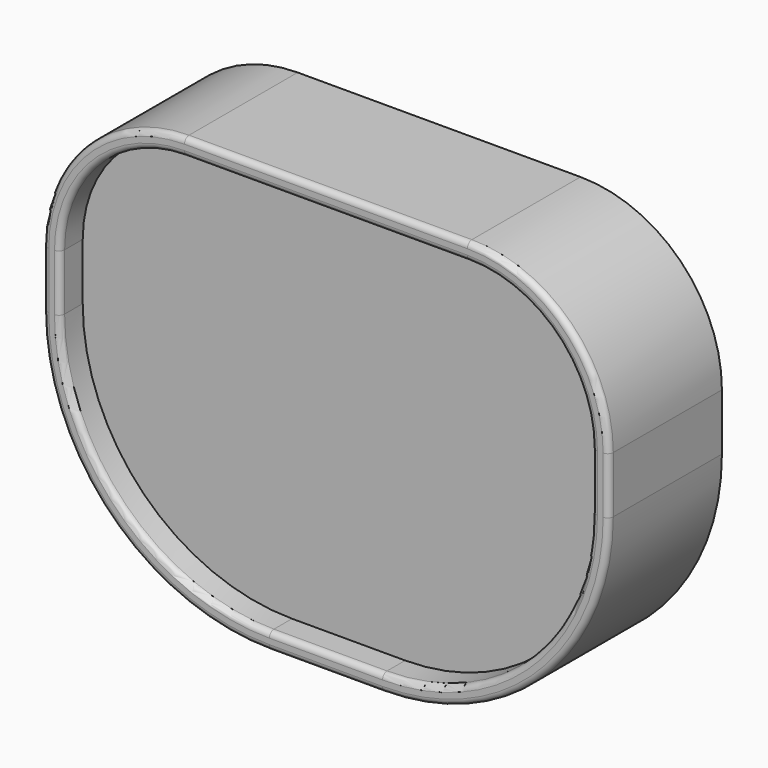
from build123d import *

# Parameters (mm, degrees)
F1_DEPTH = 20
F2_DEPTH = 25
F3_R     = 1


with BuildPart() as f1:
    # F0 (on Front) → F1 (new body)
    with BuildSketch(Plane.XZ):
        with BuildLine():
            Line((25, 27), (-25, 27))
            ThreePointArc((-25, 27), (-40.556349, 20.556349), (-47, 5))
            Line((-47, 5), (-47, -5))
            ThreePointArc((-47, -5), (-36.162951, -31.162951), (-10, -42))
            Line((-10, -42), (10, -42))
            ThreePointArc((10, -42), (36.162951, -31.162951), (47, -5))
            Line((47, -5), (47, 5))
            ThreePointArc((47, 5), (40.556349, 20.556349), (25, 27))
        make_face()
    extrude(amount=F1_DEPTH)

    # F0 (on Front) → F2 (join)
    with BuildSketch(Plane.XZ):
        with BuildLine():
            ThreePointArc((10, -45), (38.284271, -33.284271), (50, -5))
            Line((50, -5), (50, 5))
            ThreePointArc((50, 5), (42.67767, 22.67767), (25, 30))
            Line((25, 30), (-25, 30))
            ThreePointArc((-25, 30), (-42.67767, 22.67767), (-50, 5))
            Line((-50, 5), (-50, -5))
            ThreePointArc((-50, -5), (-38.284271, -33.284271), (-10, -45))
            Line((-10, -45), (10, -45))
        make_face()
        with BuildLine():
            ThreePointArc((-47, 5), (-40.556349, 20.556349), (-25, 27))
            Line((-25, 27), (25, 27))
            ThreePointArc((25, 27), (40.556349, 20.556349), (47, 5))
            Line((47, 5), (47, -5))
            ThreePointArc((47, -5), (36.162951, -31.162951), (10, -42))
            Line((10, -42), (-10, -42))
            ThreePointArc((-10, -42), (-36.162951, -31.162951), (-47, -5))
            Line((-47, -5), (-47, 5))
        make_face(mode=Mode.SUBTRACT)
    extrude(amount=F2_DEPTH)

    # F3
    f3_edges = [f1.edges().sort_by_distance(p)[0] for p in [
        (0, -25, 27),
        (38.284271, -25, -33.284271),
    ]]
    fillet(f3_edges, radius=F3_R)


solid = f1.part
